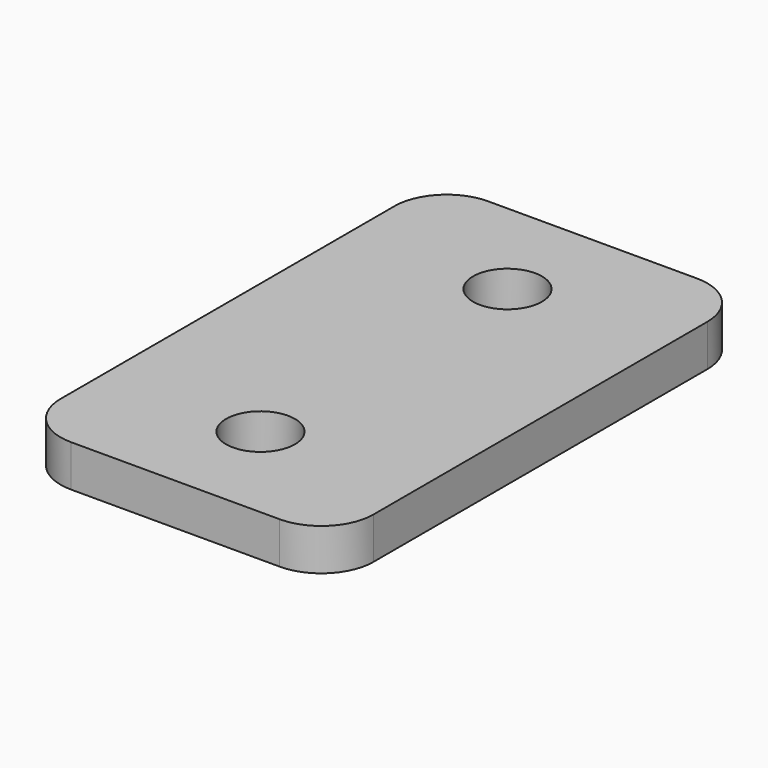
from build123d import *

# Parameters (mm, degrees)
SKETCH_R  = 1.65
PAD_DEPTH = 2


with BuildPart() as part:
    # Sketch → Pad (new body)
    with BuildSketch(Plane.XY):
        with BuildLine():
            Line((-7.5, 10), (-7.5, -10))
            ThreePointArc((-7.5, -10), (-6.767767, -11.767767), (-5, -12.5))
            Line((-5, -12.5), (5, -12.5))
            ThreePointArc((5, -12.5), (6.767767, -11.767767), (7.5, -10))
            Line((7.5, -10), (7.5, 10))
            ThreePointArc((7.5, 10), (6.767767, 11.767767), (5, 12.5))
            Line((5, 12.5), (-5, 12.5))
            ThreePointArc((-5, 12.5), (-6.767767, 11.767767), (-7.5, 10))
        make_face()
        with Locations((0, 7.4)):
            Circle(SKETCH_R, mode=Mode.SUBTRACT)
        with Locations((0, -7.4)):
            Circle(SKETCH_R, mode=Mode.SUBTRACT)
    extrude(amount=PAD_DEPTH)


solid = part.part
